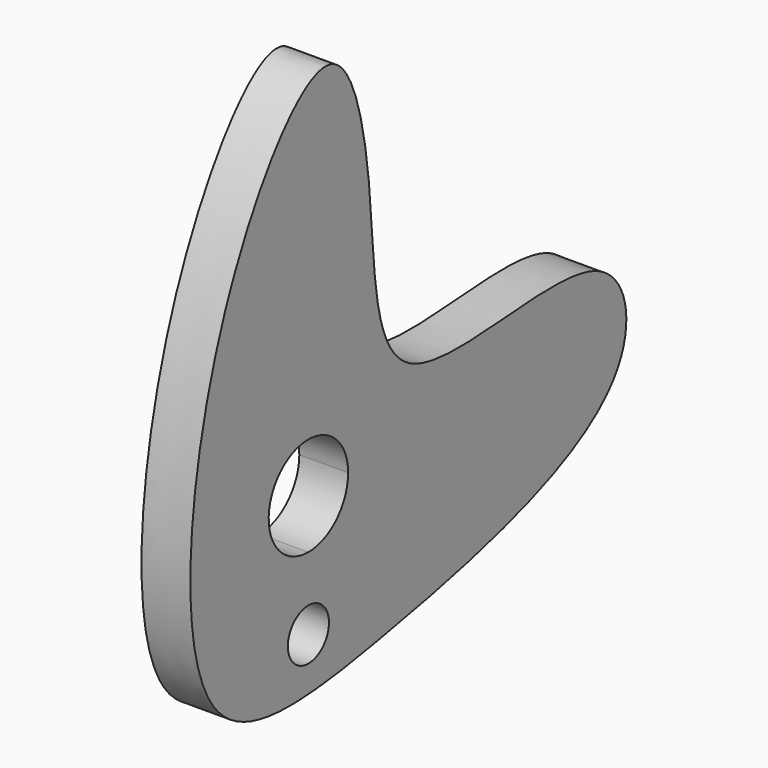
from build123d import *

# Parameters (mm, degrees)
F3_DEPTH = 6
F1_R     = 2
F4_DEPTH = 6
F5_R     = 3.15
F6_DEPTH = 6


with BuildPart() as f3:
    # F0 (on Right) → F3 (new body)
    with BuildSketch(Plane.YZ):
        with BuildLine():
            add(Edge.make_bspline(
                [(21.8086410314, 46.9964575022), (17.3981131494, 47.8828598161), (1.1887611169, 26.6320423816), (-3.1252677895, -23.1308140173), (30.2174352156, -18.7020775832), (70.5573441287, -9.6997097106), (65.9490054224, 14.3461378849), (27.9283679632, 1.8564448745), (29.2276233484, 30.2218935803), (25.4026856023, 46.2741472688), (21.8086410314, 46.9964575022)],
                knots=[0, 0, 0, 0, 0.1254146193, 0.2852619379, 0.410629587, 0.5631354892, 0.6498332046, 0.7816975869, 0.8978023167, 1, 1, 1, 1], degree=3))
        make_face()
        with BuildLine():
            ThreePointArc((18.5794053599, -4.4186457679), (14.2660539947, 5.9947055974), (24.6794053599, 1.6813542321))
            ThreePointArc((24.6794053599, 1.6813542321), (22.8927567252, -2.6319971331), (18.5794053599, -4.4186457679))
        make_face(mode=Mode.SUBTRACT)
    extrude(amount=F3_DEPTH)

    # F1 (on Right) → F4 (cut)
    with BuildSketch(Plane.YZ):
        with Locations((18.5793489218, -13.3186234161)):
            Circle(F1_R)
    extrude(amount=F4_DEPTH, mode=Mode.SUBTRACT)

    # F5 (on Right) → F6 (cut)
    with BuildSketch(Plane.YZ):
        with Locations((18.5794346035, -13.3185721934)):
            Circle(F5_R)
    extrude(amount=F6_DEPTH, mode=Mode.SUBTRACT)


solid = f3.part
